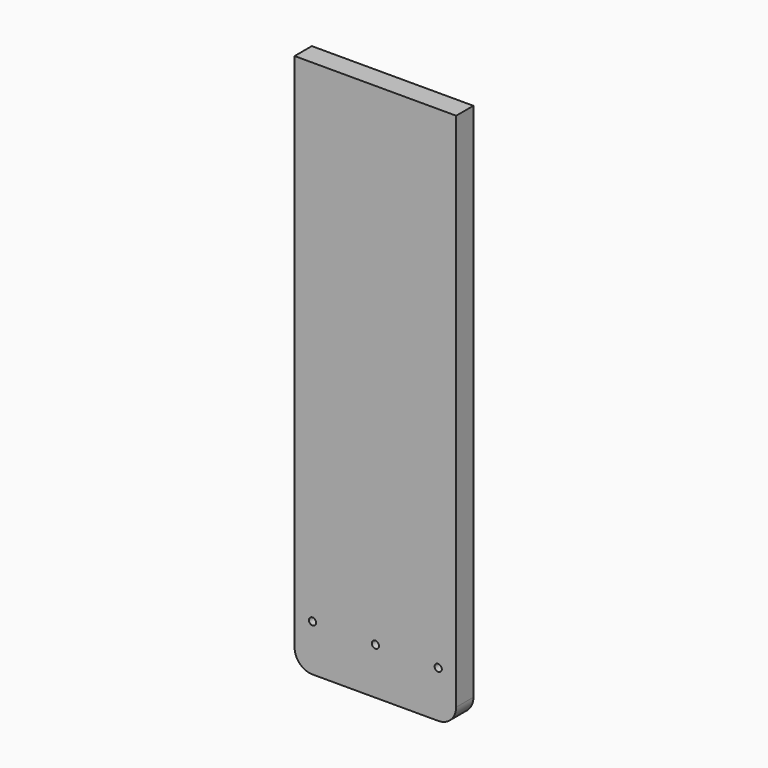
from build123d import *

# Parameters (mm, degrees)
F0_W     = 90
F0_H     = 20
F0_H_2   = 12
F0_R     = 2
F0_H_3   = 268
F1_DEPTH = 12
F2_R     = 10


with BuildPart() as f1:
    # F0 (on Front) → F1 (new body)
    with BuildSketch(Plane.XZ):
        with Locations((0, -140)):
            Rectangle(F0_W, F0_H)
        with Locations((0, -124)):
            Rectangle(F0_W, F0_H_2)
        with Locations((-35, -124)):
            Circle(F0_R, mode=Mode.SUBTRACT)
        with Locations((0, -124)):
            Circle(F0_R, mode=Mode.SUBTRACT)
        with Locations((35, -124)):
            Circle(F0_R, mode=Mode.SUBTRACT)
        with Locations((0, 16)):
            Rectangle(F0_W, F0_H_3)
    extrude(amount=F1_DEPTH)

    # F2
    f2_edges = [f1.edges().sort_by_distance(p)[0] for p in [
        (45, -6, -150),
        (-45, -6, -150),
    ]]
    fillet(f2_edges, radius=F2_R)


solid = f1.part
